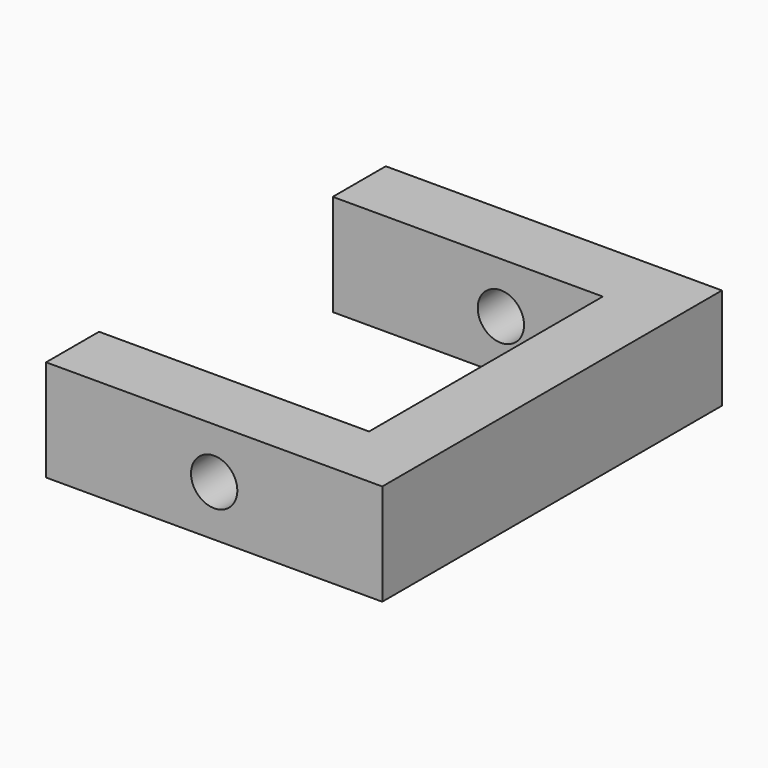
from build123d import *

# Parameters (mm, degrees)
F1_DEPTH = 4.6
F2_R     = 1.05
F3_DEPTH = 25


with BuildPart() as f1:
    # F0 (on Top) → F1 (new body)
    with BuildSketch(Plane.XY):
        Polygon((-15.24, 0), (0, 0), (0, 19.245), (-15.24, 19.245), (-15.24, 16.245), (-3, 16.245), (-3, 3), (-15.24, 3), align=None)
    extrude(amount=F1_DEPTH)

    # F2 (on face) → F3 (cut)
    with BuildSketch(Plane.XZ):
        with Locations((-7.62, 2.3)):
            Circle(F2_R)
    extrude(amount=-F3_DEPTH, mode=Mode.SUBTRACT)


solid = f1.part
